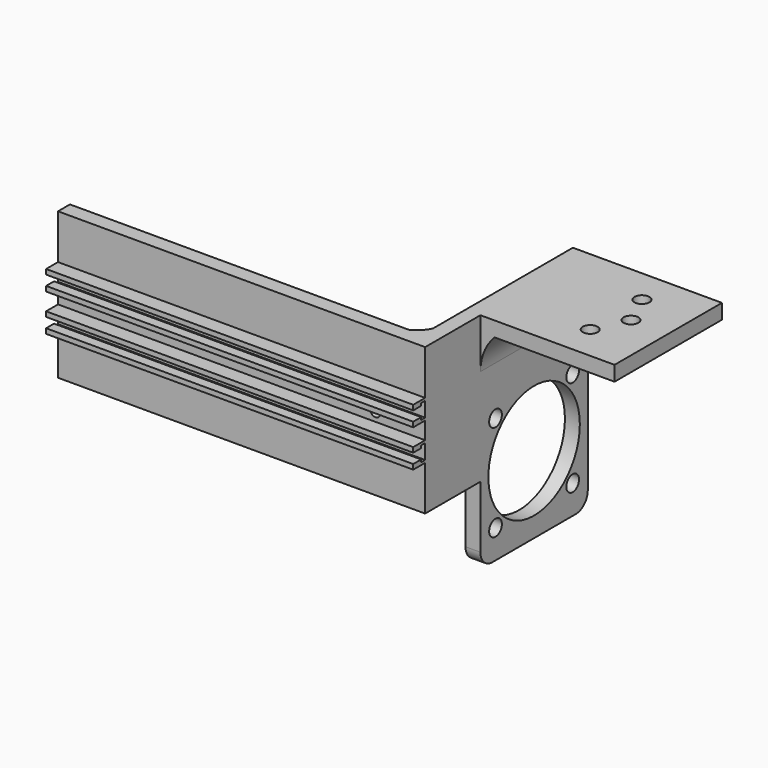
from build123d import *

# Parameters (mm, degrees)
SKETCH089_W             = 27
SKETCH089_H             = 27
SKETCH089_R             = 1.5
PAD036_DEPTH            = 3
SKETCH088_R             = 11.5
SKETCH088_R_2           = 1.6
PAD037_DEPTH            = 3
PAD038_DEPTH            = 27
SKETCH092_W             = 3
SKETCH092_H             = 29.5
PAD039_DEPTH            = 10.9
SKETCH093_W             = 3
SKETCH093_H             = 29.5
PAD040_DEPTH            = 70.9
PAD040_DEPTH_BACK       = 3
SKETCH094_W             = 3
SKETCH094_H             = 4
PAD041_DEPTH            = 73.9
SKETCH095_W             = 1
SKETCH095_H             = 3
SKETCH095_W_2           = 2
SKETCH095_H_2           = 2
POCKET048_DEPTH         = 74
SKETCH096_R             = 1
POCKET049_DEPTH         = 3
PAD042_DEPTH            = 29.5
BODY010_ROLL_ANGLE      = -89.9826768737
BODY010_PITCH_ANGLE     = -0.0173178896
BODY010_PLACEMENT_ANGLE = 89.9826768737


with BuildPart() as part:
    # Sketch089 → Pad036 (new body)
    with BuildSketch(Plane.XZ):
        with Locations((13.5, -13.5)):
            Rectangle(SKETCH089_W, SKETCH089_H)
        with Locations((7, -16.5)):
            Circle(SKETCH089_R, mode=Mode.SUBTRACT)
        with Locations((13.5, -19.5)):
            Circle(SKETCH089_R, mode=Mode.SUBTRACT)
        with Locations((20, -16.5)):
            Circle(SKETCH089_R, mode=Mode.SUBTRACT)
    extrude(amount=-PAD036_DEPTH)

    # Sketch088 → Pad037 (join)
    with BuildSketch(Plane.XY):
        with BuildLine():
            Line((0, 42), (0, 0))
            Line((0, 0), (27, 0))
            Line((27, 0), (27, 42))
            ThreePointArc((27, 42), (26.1213203436, 44.1213203436), (24, 45))
            Line((24, 45), (3, 45))
            ThreePointArc((3, 45), (0.8786796564, 44.1213203436), (0, 42))
        make_face()
        with Locations((13.5, 29.5)):
            Circle(SKETCH088_R, mode=Mode.SUBTRACT)
        with Locations((3.8, 39.2)):
            Circle(SKETCH088_R_2, mode=Mode.SUBTRACT)
        with Locations((23.2, 39.2)):
            Circle(SKETCH088_R_2, mode=Mode.SUBTRACT)
        with Locations((23.2, 19.8)):
            Circle(SKETCH088_R_2, mode=Mode.SUBTRACT)
        with Locations((3.8, 19.8)):
            Circle(SKETCH088_R_2, mode=Mode.SUBTRACT)
    extrude(amount=PAD037_DEPTH)

    # Sketch090 → Pad038 (join)
    with BuildSketch(Plane.YZ):
        with BuildLine():
            ThreePointArc((10, 0), (2.9289309634, -2.9289334129), (0, -10.0000034641))
            Line((0, -10.000003), (0, 0))
            Line((10, 0), (0, 0))
        make_face()
    extrude(amount=PAD038_DEPTH)

    # Sketch092 (on Face17 of Pad038) → Pad039 (join)
    with BuildSketch(Plane(origin=(0, 0, 0), x_dir=(0, 0, -1), z_dir=(-1, 0, 0))):
        with Locations((-1.5, -14.75)):
            Rectangle(SKETCH092_W, SKETCH092_H)
    extrude(amount=PAD039_DEPTH)

    # Sketch093 (on Face21 of Pad039) → Pad040 (join, two sides)
    with BuildSketch(Plane(origin=(0, 0, 3), x_dir=(-1, 0, 0), z_dir=(0, 0, 1))) as pad040_sk:
        with Locations((12.4, -14.75)):
            Rectangle(SKETCH093_W, SKETCH093_H)
    extrude(amount=PAD040_DEPTH)
    extrude(pad040_sk.sketch, amount=-PAD040_DEPTH_BACK)

    # Sketch094 (on Face20 of Pad040) → Pad041 (join)
    with BuildSketch(Plane(origin=(0, 0, 73.9), x_dir=(-1, 0, 0), z_dir=(0, 0, 1))):
        with Locations((15.4, -11)):
            Rectangle(SKETCH094_W, SKETCH094_H)
        with Locations((15.4, -18.5)):
            Rectangle(SKETCH094_W, SKETCH094_H)
    extrude(amount=-PAD041_DEPTH)

    # Sketch095 (on Face32 of Pad041) → Pocket048 (cut)
    with BuildSketch(Plane(origin=(0, 0, 73.9), x_dir=(-1, 0, 0), z_dir=(0, 0, 1))):
        with Locations((14.4, -11)):
            Rectangle(SKETCH095_W, SKETCH095_H)
        with Locations((15.9, -11)):
            Rectangle(SKETCH095_W_2, SKETCH095_H_2)
        with Locations((14.4, -18.5)):
            Rectangle(SKETCH095_W, SKETCH095_H)
        with Locations((15.9, -18.5)):
            Rectangle(SKETCH095_W_2, SKETCH095_H_2)
    extrude(amount=-POCKET048_DEPTH, mode=Mode.SUBTRACT)

    # Sketch096 (on Face20 of Pocket048) → Pocket049 (cut)
    with BuildSketch(Plane(origin=(-13.9, 0, 0), x_dir=(0, 0, -1), z_dir=(-1, 0, 0))):
        with Locations((-10, -14.7)):
            Circle(SKETCH096_R)
    extrude(amount=-POCKET049_DEPTH, mode=Mode.SUBTRACT)

    # Sketch097 (on Face33 of Pocket049) → Pad042 (join)
    with BuildSketch(Plane.XZ):
        with BuildLine():
            ThreePointArc((-11.1945579857, 6.3643060843), (-9.8282285955, 4.1860605156), (-7.686876766, 2.76260623))
            Line((-7.686877, 2.762606), (-11.55202, 1.663341))
            Line((-11.194558, 6.364306), (-11.55202, 1.663341))
        make_face()
    extrude(amount=-PAD042_DEPTH)


with BuildPart() as part_1:
    # Body010 roll: moved
    add(part.part.rotate(Axis((0, 0, 0), (1, 0, 0)), BODY010_ROLL_ANGLE))


with BuildPart() as part_2:
    # Body010 pitch: moved
    add(part_1.part.rotate(Axis((0, 0, 0), (0, 1, 0)), BODY010_PITCH_ANGLE))


with BuildPart() as part_3:
    # Body010 placement: moved
    add(part_2.part.moved(Location((-70, 7, 0))).rotate(Axis((-70, 7, 0), (0, 0, 1)), BODY010_PLACEMENT_ANGLE))


solid = part_3.part
